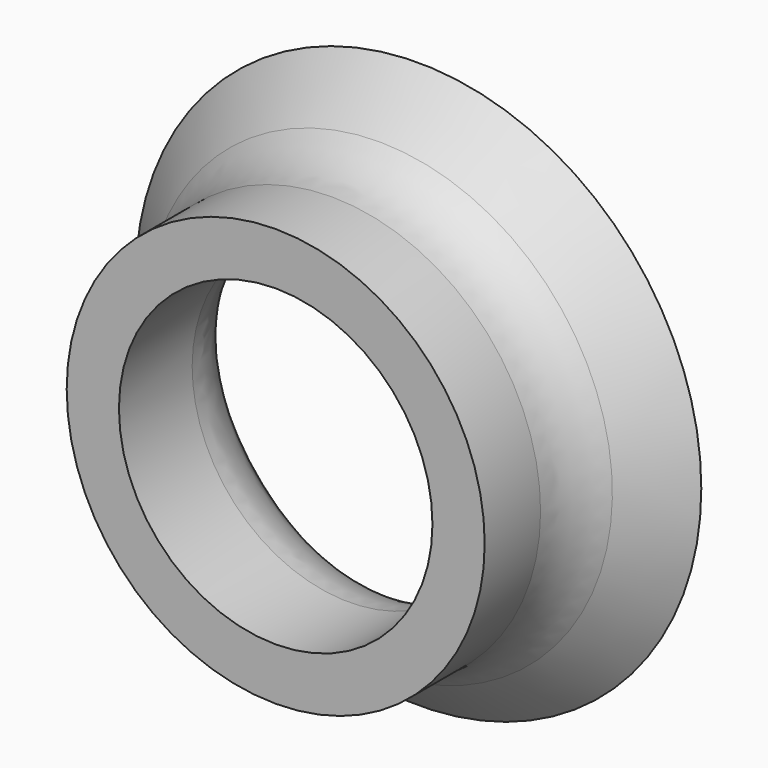
from build123d import *

# Parameters (mm, degrees)
F2_R = 10.16


with BuildPart() as f1:
    # F0 (on Top) → F1 (revolve)
    with BuildSketch(Plane.XY):
        Polygon((-25.4, 12.7), (-25.4, 0), (-19.05, 0), (-19.05, 15.330256), (-25.4, 21.680256), (-34.380256, 21.680256), align=None)
    revolve(axis=Axis((0, 22.036515, 0), (0, 1, 0)))

    # F2
    f2_edges = [f1.edges().sort_by_distance(p)[0] for p in [
        (25.4, 12.7, 0),
        (19.05, 15.330256, 0),
    ]]
    fillet(f2_edges, radius=F2_R)


solid = f1.part
